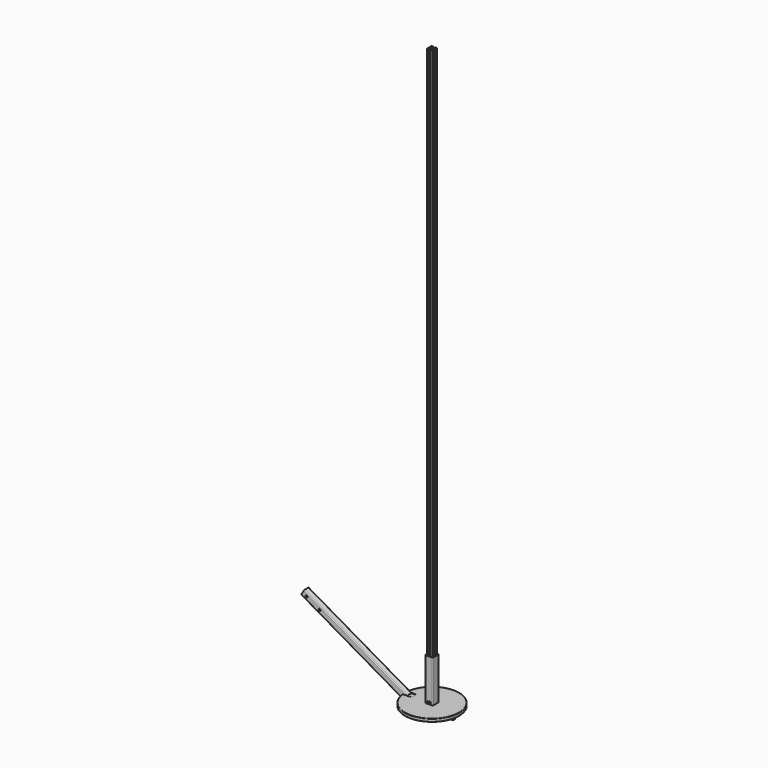
from build123d import *

# Parameters (mm, degrees)
F16_W     = 19.05
F16_H     = 19.05
F17_R     = 4.1275
F2_DEPTH  = 25.4
F3_R      = 6.35
F18_DEPTH = 25.4
F4_W      = 25.4
F4_H      = 25.4
F5_DEPTH  = 190.5
F6_R      = 6.35
F19_DEPTH = 31.75
F7_R      = 3.175
F8_DEPTH  = 3.175
F9_R      = 114.3
F9_W      = 25.4
F9_H      = 25.4
F10_DEPTH = 12.7
F20_W     = 38.1
F20_H     = 38.1
F20_W_2   = 31.75
F20_H_2   = 31.75
F11_DEPTH = 50.8
F12_R     = 3.175
F21_DEPTH = 3.175
F13_R     = 1.5875
F22_R     = 3.175
F14_DEPTH = 3.937
F15_DEPTH = 2438.4


with BuildPart() as f1:
    # F1: sweep along a path in F0
    with BuildLine(Plane.XZ) as f1_path:
        Line((0, -12.7), (-94.7940905122, -12.7))
        ThreePointArc((-94.7940905122, -12.7), (-101.3680942579, -11.8345159877), (-107.4940905122, -9.2970452561))
        Line((-107.4940905122, -9.2970452561), (-541.5409051225, 241.3))
    # F16 (on Right) → F1 (sweep)
    with BuildSketch(Plane.YZ):
        with BuildLine():
            Line((12.7, -9.525), (12.7, 9.525))
            ThreePointArc((12.7, 9.525), (11.7700640303, 11.7700640303), (9.525, 12.7))
            Line((9.525, 12.7), (-9.525, 12.7))
            ThreePointArc((-9.525, 12.7), (-11.7700640303, 11.7700640303), (-12.7, 9.525))
            Line((-12.7, 9.525), (-12.7, -9.525))
            ThreePointArc((-12.7, -9.525), (-11.7700640303, -11.7700640303), (-9.525, -12.7))
            Line((-9.525, -12.7), (9.525, -12.7))
            ThreePointArc((9.525, -12.7), (11.7700640303, -11.7700640303), (12.7, -9.525))
        make_face()
        Rectangle(F16_W, F16_H, mode=Mode.SUBTRACT)
    sweep(path=f1_path.line)

    # F17 (on face) → F2 (cut)
    with BuildSketch(Plane.XZ.offset(12.7)):
        with Locations((-518.6931211804, 242.7735226281)):
            Circle(F17_R)
        with Locations((-463.7005080401, 211.0235226281)):
            Circle(F17_R)
    extrude(amount=-F2_DEPTH, mode=Mode.SUBTRACT)

    # F3 (on face) → F18 (cut)
    with BuildSketch(Plane.XY.offset(12.7)):
        with Locations((-38.1, 0)):
            Circle(F3_R)
    extrude(amount=-F18_DEPTH, mode=Mode.SUBTRACT)


with BuildPart() as f5:
    # F4 (on Top) → F5 (new body)
    with BuildSketch(Plane.XY):
        with BuildLine():
            ThreePointArc((15.875, 12.7), (14.9450640303, 14.9450640303), (12.7, 15.875))
            Line((12.7, 15.875), (-12.7, 15.875))
            ThreePointArc((-12.7, 15.875), (-14.9450640303, 14.9450640303), (-15.875, 12.7))
            Line((-15.875, 12.7), (-15.875, -12.7))
            ThreePointArc((-15.875, -12.7), (-14.9450640303, -14.9450640303), (-12.7, -15.875))
            Line((-12.7, -15.875), (12.7, -15.875))
            ThreePointArc((12.7, -15.875), (14.9450640303, -14.9450640303), (15.875, -12.7))
            Line((15.875, -12.7), (15.875, 12.7))
        make_face()
        Rectangle(F4_W, F4_H, mode=Mode.SUBTRACT)
    extrude(amount=F5_DEPTH)

    # F6 (on face) → F19 (cut)
    with BuildSketch(Plane.XZ.offset(15.875)):
        with Locations((0, 19.05)):
            Circle(F6_R)
    extrude(amount=-F19_DEPTH, mode=Mode.SUBTRACT)

    # F7 (on face) → F8 (cut)
    with BuildSketch(Plane(origin=(-15.875, 0, 0), x_dir=(0, -1, 0), z_dir=(-1, 0, 0))):
        with Locations((0, 127)):
            Circle(F7_R)
        with Locations((0, 76.2)):
            Circle(F7_R)
    extrude(amount=-F8_DEPTH, mode=Mode.SUBTRACT)


with BuildPart() as f10:
    # F9 (on Top) → F10 (new body)
    with BuildSketch(Plane.XY):
        Circle(F9_R)
        with Locations((-88.9, 0)):
            Rectangle(F9_W, F9_H, mode=Mode.SUBTRACT)
    extrude(amount=F10_DEPTH)

    # F20 (on face) → F11 (join)
    with BuildSketch(Plane(origin=(0, 0, 0), x_dir=(1, 0, 0), z_dir=(0, 0, -1))):
        with Locations((-88.9, 0)):
            Rectangle(F20_W, F20_H)
        with Locations((-88.9, 0)):
            Rectangle(F20_W_2, F20_H_2, mode=Mode.SUBTRACT)
    extrude(amount=F11_DEPTH)

    # F12 (on face) → F21 (cut)
    with BuildSketch(Plane(origin=(-107.95, 0, 0), x_dir=(0, -1, 0), z_dir=(-1, 0, 0))):
        with Locations((0, -25.4)):
            Circle(F12_R)
    extrude(amount=-F21_DEPTH, mode=Mode.SUBTRACT)

    # F13
    f13_edges = [f10.edges().sort_by_distance(p)[0] for p in [
        (-107.95, 19.05, -25.4),
        (-107.95, -19.05, -25.4),
        (-69.85, 19.05, -25.4),
        (-69.85, -19.05, -25.4),
        (-114.3, 0, 0),
        (-114.3, 0, 12.7),
    ]]
    fillet(f13_edges, radius=F13_R)

    # F22 (on Front) → F14 (join, symmetric)
    with BuildSketch(Plane.XZ):
        with BuildLine():
            Line((104.775, 0), (73.025, 0))
            Line((73.025, 0), (84.0235226281, -19.05))
            ThreePointArc((84.0235226281, -19.05), (88.9, -21.8654355234), (93.7764773719, -19.05))
            Line((93.7764773719, -19.05), (104.775, 0))
        make_face()
        with Locations((88.9, -10.9327177617)):
            Circle(F22_R, mode=Mode.SUBTRACT)
    extrude(amount=F14_DEPTH, both=True)


with BuildPart() as f15:
    # F23 (on Top) → F15 (new body)
    with BuildSketch(Plane.XY):
        with BuildLine():
            ThreePointArc((12.7, 9.525), (11.7700640303, 11.7700640303), (9.525, 12.7))
            Line((9.525, 12.7), (3.556, 12.7))
            ThreePointArc((3.556, 12.7), (3.2865923164, 12.5884076836), (3.175, 12.319))
            Line((3.175, 12.319), (3.175, 11.4935))
            ThreePointArc((3.175, 11.4935), (3.2865923164, 11.2240923164), (3.556, 11.1125))
            Line((3.556, 11.1125), (6.9239167607, 11.1125))
            ThreePointArc((6.9239167607, 11.1125), (8.0972437669, 10.3285079591), (7.8219423728, 8.9444743879))
            Line((7.8219423728, 8.9444743879), (2.7964167607, 3.9189487758))
            ThreePointArc((2.7964167607, 3.9189487758), (1.9723814546, 3.3683459874), (1.0003655364, 3.175))
            Line((1.0003655364, 3.175), (0, 3.175))
            Line((0, 3.175), (-1.0003655364, 3.175))
            ThreePointArc((-1.0003655364, 3.175), (-1.9723814546, 3.3683459874), (-2.7964167607, 3.9189487758))
            Line((-2.7964167607, 3.9189487758), (-7.8219423728, 8.9444743879))
            ThreePointArc((-7.8219423728, 8.9444743879), (-8.0972437669, 10.3285079591), (-6.9239167607, 11.1125))
            Line((-6.9239167607, 11.1125), (-3.556, 11.1125))
            ThreePointArc((-3.556, 11.1125), (-3.2865923164, 11.2240923164), (-3.175, 11.4935))
            Line((-3.175, 11.4935), (-3.175, 12.319))
            ThreePointArc((-3.175, 12.319), (-3.2865923164, 12.5884076836), (-3.556, 12.7))
            Line((-3.556, 12.7), (-9.525, 12.7))
            ThreePointArc((-9.525, 12.7), (-11.7700640303, 11.7700640303), (-12.7, 9.525))
            Line((-12.7, 9.525), (-12.7, 3.556))
            ThreePointArc((-12.7, 3.556), (-12.5884076836, 3.2865923164), (-12.319, 3.175))
            Line((-12.319, 3.175), (-11.4935, 3.175))
            ThreePointArc((-11.4935, 3.175), (-11.2240923164, 3.2865923164), (-11.1125, 3.556))
            Line((-11.1125, 3.556), (-11.1125, 6.9239167607))
            ThreePointArc((-11.1125, 6.9239167607), (-10.3285079591, 8.0972437669), (-8.9444743879, 7.8219423728))
            Line((-8.9444743879, 7.8219423728), (-3.9189487758, 2.7964167607))
            ThreePointArc((-3.9189487758, 2.7964167607), (-3.3683459874, 1.9723814546), (-3.175, 1.0003655364))
            Line((-3.175, 1.0003655364), (-3.175, 0))
            Line((-3.175, 0), (-3.175, -1.0003655364))
            ThreePointArc((-3.175, -1.0003655364), (-3.3683459874, -1.9723814546), (-3.9189487758, -2.7964167607))
            Line((-3.9189487758, -2.7964167607), (-8.9444743879, -7.8219423728))
            ThreePointArc((-8.9444743879, -7.8219423728), (-10.3285079591, -8.0972437669), (-11.1125, -6.9239167607))
            Line((-11.1125, -6.9239167607), (-11.1125, -3.556))
            ThreePointArc((-11.1125, -3.556), (-11.2240923164, -3.2865923164), (-11.4935, -3.175))
            Line((-11.4935, -3.175), (-12.319, -3.175))
            ThreePointArc((-12.319, -3.175), (-12.5884076836, -3.2865923164), (-12.7, -3.556))
            Line((-12.7, -3.556), (-12.7, -9.525))
            ThreePointArc((-12.7, -9.525), (-11.7700640303, -11.7700640303), (-9.525, -12.7))
            Line((-9.525, -12.7), (-3.556, -12.7))
            ThreePointArc((-3.556, -12.7), (-3.2865923164, -12.5884076836), (-3.175, -12.319))
            Line((-3.175, -12.319), (-3.175, -11.4935))
            ThreePointArc((-3.175, -11.4935), (-3.2865923164, -11.2240923164), (-3.556, -11.1125))
            Line((-3.556, -11.1125), (-6.9239167607, -11.1125))
            ThreePointArc((-6.9239167607, -11.1125), (-8.0972437669, -10.3285079591), (-7.8219423728, -8.9444743879))
            Line((-7.8219423728, -8.9444743879), (-2.7964167607, -3.9189487758))
            ThreePointArc((-2.7964167607, -3.9189487758), (-1.9723814546, -3.3683459874), (-1.0003655364, -3.175))
            Line((-1.0003655364, -3.175), (0, -3.175))
            Line((0, -3.175), (1.0003655364, -3.175))
            ThreePointArc((1.0003655364, -3.175), (1.9723814546, -3.3683459874), (2.7964167607, -3.9189487758))
            Line((2.7964167607, -3.9189487758), (7.8219423728, -8.9444743879))
            ThreePointArc((7.8219423728, -8.9444743879), (8.0972437669, -10.3285079591), (6.9239167607, -11.1125))
            Line((6.9239167607, -11.1125), (3.556, -11.1125))
            ThreePointArc((3.556, -11.1125), (3.2865923164, -11.2240923164), (3.175, -11.4935))
            Line((3.175, -11.4935), (3.175, -12.319))
            ThreePointArc((3.175, -12.319), (3.2865923164, -12.5884076836), (3.556, -12.7))
            Line((3.556, -12.7), (9.525, -12.7))
            ThreePointArc((9.525, -12.7), (11.7700640303, -11.7700640303), (12.7, -9.525))
            Line((12.7, -9.525), (12.7, -3.556))
            ThreePointArc((12.7, -3.556), (12.5884076836, -3.2865923164), (12.319, -3.175))
            Line((12.319, -3.175), (11.4935, -3.175))
            ThreePointArc((11.4935, -3.175), (11.2240923164, -3.2865923164), (11.1125, -3.556))
            Line((11.1125, -3.556), (11.1125, -6.9239167607))
            ThreePointArc((11.1125, -6.9239167607), (10.3285079591, -8.0972437669), (8.9444743879, -7.8219423728))
            Line((8.9444743879, -7.8219423728), (3.9189487758, -2.7964167607))
            ThreePointArc((3.9189487758, -2.7964167607), (3.3683459874, -1.9723814546), (3.175, -1.0003655364))
            Line((3.175, -1.0003655364), (3.175, 0))
            Line((3.175, 0), (3.175, 1.0003655364))
            ThreePointArc((3.175, 1.0003655364), (3.3683459874, 1.9723814546), (3.9189487758, 2.7964167607))
            Line((3.9189487758, 2.7964167607), (8.9444743879, 7.8219423728))
            ThreePointArc((8.9444743879, 7.8219423728), (10.3285079591, 8.0972437669), (11.1125, 6.9239167607))
            Line((11.1125, 6.9239167607), (11.1125, 3.556))
            ThreePointArc((11.1125, 3.556), (11.2240923164, 3.2865923164), (11.4935, 3.175))
            Line((11.4935, 3.175), (12.319, 3.175))
            ThreePointArc((12.319, 3.175), (12.5884076836, 3.2865923164), (12.7, 3.556))
            Line((12.7, 3.556), (12.7, 9.525))
        make_face()
    extrude(amount=F15_DEPTH)


solid = Compound([f1.part, f5.part, f10.part, f15.part])
